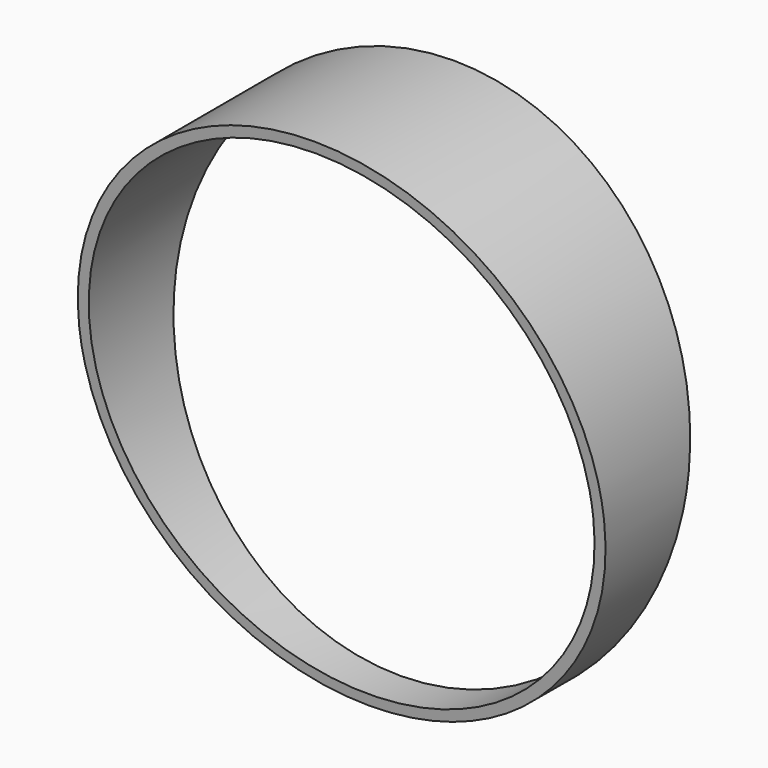
from build123d import *

# Parameters (mm, degrees)
F0_R     = 38.1
F0_R_2   = 36.5125
F1_DEPTH = 12.7
F3_DEPTH = 38.1


with BuildPart() as f1:
    # F0 (on Front) → F1 (new body, symmetric)
    with BuildSketch(Plane.XZ):
        with Locations((0, 38.1)):
            Circle(F0_R)
        with Locations((0, 38.1)):
            Circle(F0_R_2, mode=Mode.SUBTRACT)
    extrude(amount=F1_DEPTH, both=True)

    # F2 (on Right) → F3 (cut, symmetric)
    with BuildSketch(Plane.YZ):
        Polygon((2.66808, 0), (-2.66808, 0), (-12.7, 76.2), (-12.7, -10.621837), (12.7, -10.621837), (12.7, 76.2), align=None)
    extrude(amount=F3_DEPTH, both=True, mode=Mode.SUBTRACT)


solid = f1.part
